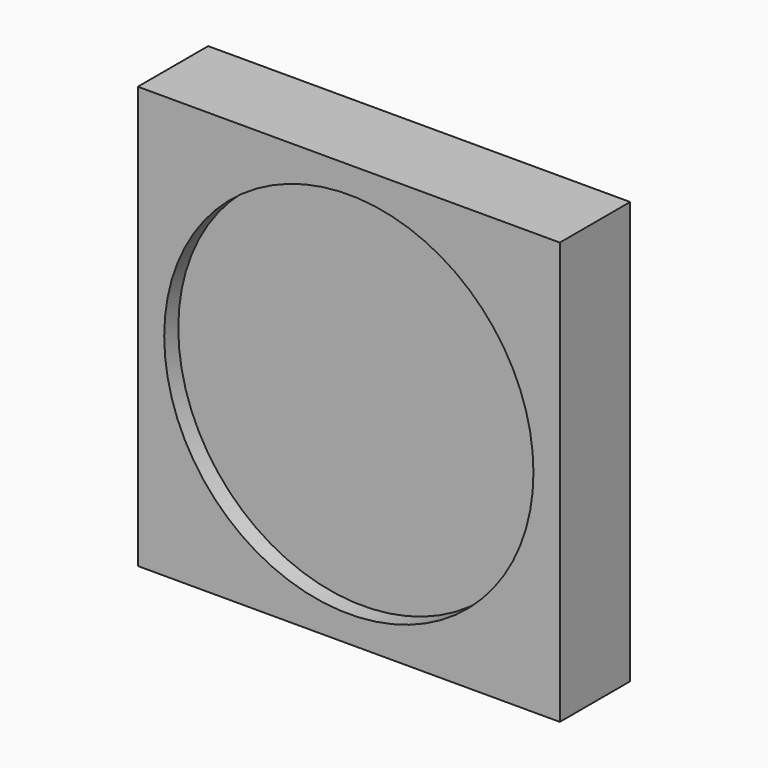
from build123d import *

# Parameters (mm, degrees)
F0_W     = 120
F0_H     = 120
F0_R     = 52.5
F1_DEPTH = 25
F2_DEPTH = 20


with BuildPart() as f1:
    # F0 (on Front) → F1 (new body)
    with BuildSketch(Plane.XZ):
        Rectangle(F0_W, F0_H)
        Circle(F0_R, mode=Mode.SUBTRACT)
    extrude(amount=F1_DEPTH)

    # F0 (on Front) → F2 (join)
    with BuildSketch(Plane.XZ):
        Circle(F0_R)
    extrude(amount=F2_DEPTH)


solid = f1.part
